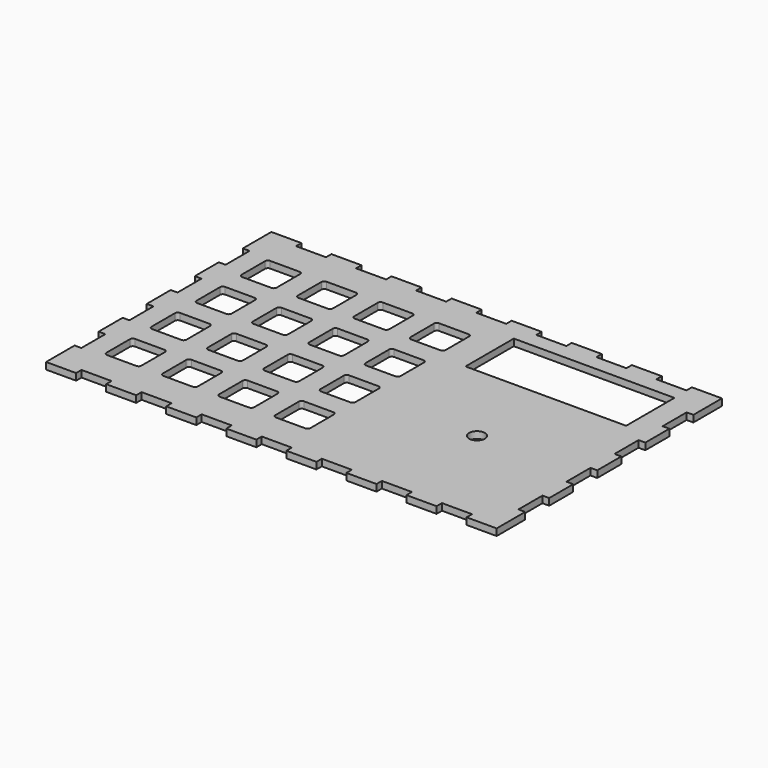
from build123d import *

# Parameters (mm, degrees)
F0_W     = 200
F0_H     = 125
F1_DEPTH = 3
F3_DEPTH = 3.001
F4_R     = 3.5
F5_DEPTH = 3.001
F6_W     = 71.3
F6_H     = 26.8
F7_DEPTH = 3.001
F8_W     = 13.33333
F8_H     = 3
F8_W_2   = 3
F8_H_2   = 13.333333
F8_H_3   = 13.333334
F9_DEPTH = 3.001


with BuildPart() as f1:
    # F0 (on Top) → F1 (new body)
    with BuildSketch(Plane.XY):
        Rectangle(F0_W, F0_H)
    extrude(amount=F1_DEPTH)

    # F2 (on face) → F3 (cut, through all)
    with BuildSketch(Plane.XY.offset(3)):
        with BuildLine():
            Line((-86.75, -45.27), (-73.71, -45.27))
            ThreePointArc((-73.71, -45.27), (-72.826117, -44.903883), (-72.46, -44.02))
            Line((-72.46, -44.02), (-72.46, -30.98))
            ThreePointArc((-72.46, -30.98), (-72.826117, -30.096117), (-73.71, -29.73))
            Line((-73.71, -29.73), (-86.75, -29.73))
            ThreePointArc((-86.75, -29.73), (-87.633883, -30.096117), (-88, -30.98))
            Line((-88, -30.98), (-88, -44.02))
            ThreePointArc((-88, -44.02), (-87.633883, -44.903883), (-86.75, -45.27))
        make_face()
        with BuildLine():
            ThreePointArc((-72.46, -5.98), (-72.826117, -5.096117), (-73.71, -4.73))
            Line((-73.71, -4.73), (-86.75, -4.73))
            ThreePointArc((-86.75, -4.73), (-87.633883, -5.096117), (-88, -5.98))
            Line((-88, -5.98), (-88, -19.02))
            ThreePointArc((-88, -19.02), (-87.633883, -19.903883), (-86.75, -20.27))
            Line((-86.75, -20.27), (-73.71, -20.27))
            ThreePointArc((-73.71, -20.27), (-72.826117, -19.903883), (-72.46, -19.02))
            Line((-72.46, -19.02), (-72.46, -5.98))
        make_face()
        with BuildLine():
            ThreePointArc((-72.46, 19.02), (-72.826117, 19.903883), (-73.71, 20.27))
            Line((-73.71, 20.27), (-86.75, 20.27))
            ThreePointArc((-86.75, 20.27), (-87.633883, 19.903883), (-88, 19.02))
            Line((-88, 19.02), (-88, 5.98))
            ThreePointArc((-88, 5.98), (-87.633883, 5.096117), (-86.75, 4.73))
            Line((-86.75, 4.73), (-73.71, 4.73))
            ThreePointArc((-73.71, 4.73), (-72.826117, 5.096117), (-72.46, 5.98))
            Line((-72.46, 5.98), (-72.46, 19.02))
        make_face()
        with BuildLine():
            ThreePointArc((-72.46, 44.02), (-72.826117, 44.903883), (-73.71, 45.27))
            Line((-73.71, 45.27), (-86.75, 45.27))
            ThreePointArc((-86.75, 45.27), (-87.633883, 44.903883), (-88, 44.02))
            Line((-88, 44.02), (-88, 30.98))
            ThreePointArc((-88, 30.98), (-87.633883, 30.096117), (-86.75, 29.73))
            Line((-86.75, 29.73), (-73.71, 29.73))
            ThreePointArc((-73.71, 29.73), (-72.826117, 30.096117), (-72.46, 30.98))
            Line((-72.46, 30.98), (-72.46, 44.02))
        make_face()
        with BuildLine():
            ThreePointArc((-47.46, -30.98), (-47.826117, -30.096117), (-48.71, -29.73))
            Line((-48.71, -29.73), (-61.75, -29.73))
            ThreePointArc((-61.75, -29.73), (-62.633883, -30.096117), (-63, -30.98))
            Line((-63, -30.98), (-63, -44.02))
            ThreePointArc((-63, -44.02), (-62.633883, -44.903883), (-61.75, -45.27))
            Line((-61.75, -45.27), (-48.71, -45.27))
            ThreePointArc((-48.71, -45.27), (-47.826117, -44.903883), (-47.46, -44.02))
            Line((-47.46, -44.02), (-47.46, -30.98))
        make_face()
        with BuildLine():
            ThreePointArc((-47.46, -5.98), (-47.826117, -5.096117), (-48.71, -4.73))
            Line((-48.71, -4.73), (-61.75, -4.73))
            ThreePointArc((-61.75, -4.73), (-62.633883, -5.096117), (-63, -5.98))
            Line((-63, -5.98), (-63, -19.02))
            ThreePointArc((-63, -19.02), (-62.633883, -19.903883), (-61.75, -20.27))
            Line((-61.75, -20.27), (-48.71, -20.27))
            ThreePointArc((-48.71, -20.27), (-47.826117, -19.903883), (-47.46, -19.02))
            Line((-47.46, -19.02), (-47.46, -5.98))
        make_face()
        with BuildLine():
            ThreePointArc((-47.46, 19.02), (-47.826117, 19.903883), (-48.71, 20.27))
            Line((-48.71, 20.27), (-61.75, 20.27))
            ThreePointArc((-61.75, 20.27), (-62.633883, 19.903883), (-63, 19.02))
            Line((-63, 19.02), (-63, 5.98))
            ThreePointArc((-63, 5.98), (-62.633883, 5.096117), (-61.75, 4.73))
            Line((-61.75, 4.73), (-48.71, 4.73))
            ThreePointArc((-48.71, 4.73), (-47.826117, 5.096117), (-47.46, 5.98))
            Line((-47.46, 5.98), (-47.46, 19.02))
        make_face()
        with BuildLine():
            ThreePointArc((-47.46, 44.02), (-47.826117, 44.903883), (-48.71, 45.27))
            Line((-48.71, 45.27), (-61.75, 45.27))
            ThreePointArc((-61.75, 45.27), (-62.633883, 44.903883), (-63, 44.02))
            Line((-63, 44.02), (-63, 30.98))
            ThreePointArc((-63, 30.98), (-62.633883, 30.096117), (-61.75, 29.73))
            Line((-61.75, 29.73), (-48.71, 29.73))
            ThreePointArc((-48.71, 29.73), (-47.826117, 30.096117), (-47.46, 30.98))
            Line((-47.46, 30.98), (-47.46, 44.02))
        make_face()
        with BuildLine():
            ThreePointArc((-22.46, -30.98), (-22.826117, -30.096117), (-23.71, -29.73))
            Line((-23.71, -29.73), (-36.75, -29.73))
            ThreePointArc((-36.75, -29.73), (-37.633883, -30.096117), (-38, -30.98))
            Line((-38, -30.98), (-38, -44.02))
            ThreePointArc((-38, -44.02), (-37.633883, -44.903883), (-36.75, -45.27))
            Line((-36.75, -45.27), (-23.71, -45.27))
            ThreePointArc((-23.71, -45.27), (-22.826117, -44.903883), (-22.46, -44.02))
            Line((-22.46, -44.02), (-22.46, -30.98))
        make_face()
        with BuildLine():
            ThreePointArc((-22.46, -5.98), (-22.826117, -5.096117), (-23.71, -4.73))
            Line((-23.71, -4.73), (-36.75, -4.73))
            ThreePointArc((-36.75, -4.73), (-37.633883, -5.096117), (-38, -5.98))
            Line((-38, -5.98), (-38, -19.02))
            ThreePointArc((-38, -19.02), (-37.633883, -19.903883), (-36.75, -20.27))
            Line((-36.75, -20.27), (-23.71, -20.27))
            ThreePointArc((-23.71, -20.27), (-22.826117, -19.903883), (-22.46, -19.02))
            Line((-22.46, -19.02), (-22.46, -5.98))
        make_face()
        with BuildLine():
            ThreePointArc((-22.46, 19.02), (-22.826117, 19.903883), (-23.71, 20.27))
            Line((-23.71, 20.27), (-36.75, 20.27))
            ThreePointArc((-36.75, 20.27), (-37.633883, 19.903883), (-38, 19.02))
            Line((-38, 19.02), (-38, 5.98))
            ThreePointArc((-38, 5.98), (-37.633883, 5.096117), (-36.75, 4.73))
            Line((-36.75, 4.73), (-23.71, 4.73))
            ThreePointArc((-23.71, 4.73), (-22.826117, 5.096117), (-22.46, 5.98))
            Line((-22.46, 5.98), (-22.46, 19.02))
        make_face()
        with BuildLine():
            ThreePointArc((-22.46, 44.02), (-22.826117, 44.903883), (-23.71, 45.27))
            Line((-23.71, 45.27), (-36.75, 45.27))
            ThreePointArc((-36.75, 45.27), (-37.633883, 44.903883), (-38, 44.02))
            Line((-38, 44.02), (-38, 30.98))
            ThreePointArc((-38, 30.98), (-37.633883, 30.096117), (-36.75, 29.73))
            Line((-36.75, 29.73), (-23.71, 29.73))
            ThreePointArc((-23.71, 29.73), (-22.826117, 30.096117), (-22.46, 30.98))
            Line((-22.46, 30.98), (-22.46, 44.02))
        make_face()
        with BuildLine():
            ThreePointArc((2.54, -30.98), (2.173883, -30.096117), (1.29, -29.73))
            Line((1.29, -29.73), (-11.75, -29.73))
            ThreePointArc((-11.75, -29.73), (-12.633883, -30.096117), (-13, -30.98))
            Line((-13, -30.98), (-13, -44.02))
            ThreePointArc((-13, -44.02), (-12.633883, -44.903883), (-11.75, -45.27))
            Line((-11.75, -45.27), (1.29, -45.27))
            ThreePointArc((1.29, -45.27), (2.173883, -44.903883), (2.54, -44.02))
            Line((2.54, -44.02), (2.54, -30.98))
        make_face()
        with BuildLine():
            ThreePointArc((2.54, -5.98), (2.173883, -5.096117), (1.29, -4.73))
            Line((1.29, -4.73), (-11.75, -4.73))
            ThreePointArc((-11.75, -4.73), (-12.633883, -5.096117), (-13, -5.98))
            Line((-13, -5.98), (-13, -19.02))
            ThreePointArc((-13, -19.02), (-12.633883, -19.903883), (-11.75, -20.27))
            Line((-11.75, -20.27), (1.29, -20.27))
            ThreePointArc((1.29, -20.27), (2.173883, -19.903883), (2.54, -19.02))
            Line((2.54, -19.02), (2.54, -5.98))
        make_face()
        with BuildLine():
            ThreePointArc((2.54, 19.02), (2.173883, 19.903883), (1.29, 20.27))
            Line((1.29, 20.27), (-11.75, 20.27))
            ThreePointArc((-11.75, 20.27), (-12.633883, 19.903883), (-13, 19.02))
            Line((-13, 19.02), (-13, 5.98))
            ThreePointArc((-13, 5.98), (-12.633883, 5.096117), (-11.75, 4.73))
            Line((-11.75, 4.73), (1.29, 4.73))
            ThreePointArc((1.29, 4.73), (2.173883, 5.096117), (2.54, 5.98))
            Line((2.54, 5.98), (2.54, 19.02))
        make_face()
        with BuildLine():
            ThreePointArc((2.54, 44.02), (2.173883, 44.903883), (1.29, 45.27))
            Line((1.29, 45.27), (-11.75, 45.27))
            ThreePointArc((-11.75, 45.27), (-12.633883, 44.903883), (-13, 44.02))
            Line((-13, 44.02), (-13, 30.98))
            ThreePointArc((-13, 30.98), (-12.633883, 30.096117), (-11.75, 29.73))
            Line((-11.75, 29.73), (1.29, 29.73))
            ThreePointArc((1.29, 29.73), (2.173883, 30.096117), (2.54, 30.98))
            Line((2.54, 30.98), (2.54, 44.02))
        make_face()
    extrude(amount=-F3_DEPTH, mode=Mode.SUBTRACT)

    # F4 (on face) → F5 (cut, through all)
    with BuildSketch(Plane.XY.offset(3)):
        with Locations((51.27, -12.5)):
            Circle(F4_R)
    extrude(amount=-F5_DEPTH, mode=Mode.SUBTRACT)

    # F6 (on face) → F7 (cut, through all)
    with BuildSketch(Plane.XY.offset(3)):
        with Locations((51.27, 39.1)):
            Rectangle(F6_W, F6_H)
    extrude(amount=-F7_DEPTH, mode=Mode.SUBTRACT)

    # F8 (on face) → F9 (cut, through all)
    with BuildSketch(Plane.XY.offset(3)):
        with Locations((-80.000005, 61)):
            Rectangle(F8_W, F8_H)
        with Locations((-53.333339, 61)):
            Rectangle(F8_W, F8_H)
        with Locations((-26.666673, 61)):
            Rectangle(F8_W, F8_H)
        with Locations((-7e-06, 61)):
            Rectangle(F8_W, F8_H)
        with Locations((26.666659, 61)):
            Rectangle(F8_W, F8_H)
        with Locations((53.333325, 61)):
            Rectangle(F8_W, F8_H)
        with Locations((79.999991, 61)):
            Rectangle(F8_W, F8_H)
        with Locations((-98.5, 39.998334)):
            Rectangle(F8_W_2, F8_H_2)
        with Locations((-98.5, 13.331666)):
            Rectangle(F8_W_2, F8_H_2)
        with Locations((-98.5, -13.335)):
            Rectangle(F8_W_2, F8_H_3)
        with Locations((-98.5, -40.001666)):
            Rectangle(F8_W_2, F8_H_2)
        with Locations((-80.000005, -61)):
            Rectangle(F8_W, F8_H)
        with Locations((-26.666673, -61)):
            Rectangle(F8_W, F8_H)
        with Locations((26.666659, -61)):
            Rectangle(F8_W, F8_H)
        with Locations((-53.333339, -61)):
            Rectangle(F8_W, F8_H)
        with Locations((-7e-06, -61)):
            Rectangle(F8_W, F8_H)
        with Locations((53.333325, -61)):
            Rectangle(F8_W, F8_H)
        with Locations((79.999991, -61)):
            Rectangle(F8_W, F8_H)
        with Locations((98.5, -13.335)):
            Rectangle(F8_W_2, F8_H_3)
        with Locations((98.5, 13.331666)):
            Rectangle(F8_W_2, F8_H_2)
        with Locations((98.5, -40.001666)):
            Rectangle(F8_W_2, F8_H_2)
        with Locations((98.5, 39.998334)):
            Rectangle(F8_W_2, F8_H_2)
    extrude(amount=-F9_DEPTH, mode=Mode.SUBTRACT)


solid = f1.part
